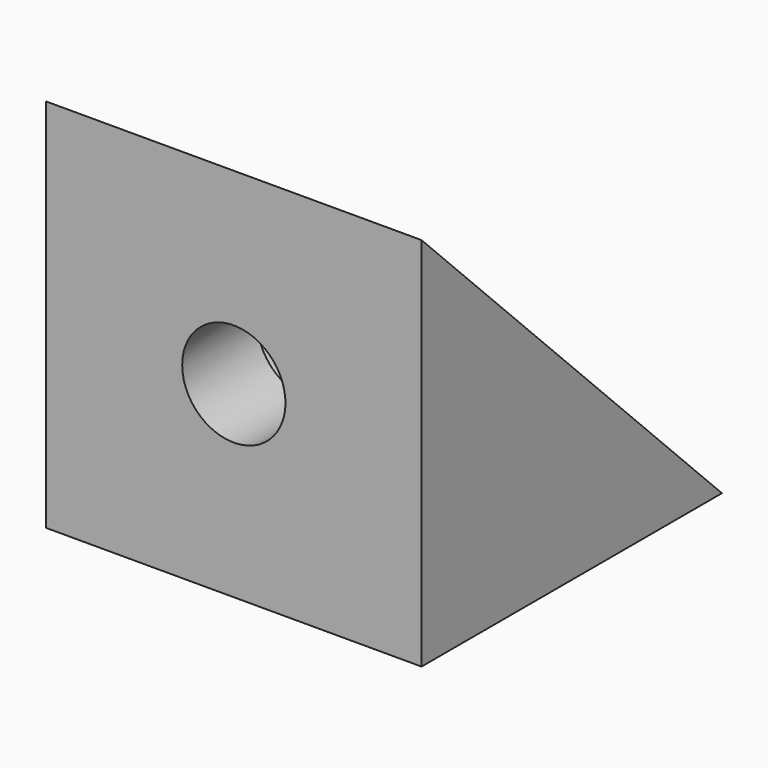
from build123d import *

# Parameters (mm, degrees)
F1_DEPTH = 20
F4_D     = 5.5
F3_R     = 5
F5_DEPTH = 15


with BuildPart() as f1:
    # F0 (on Right) → F1 (new body)
    with BuildSketch(Plane.YZ):
        Polygon((0, 20), (0, 0), (20, 0), align=None)
    extrude(amount=-F1_DEPTH)

    # F4 (through all)
    with Locations(Plane(origin=(0, 20, 0), x_dir=(1, 0, 0), z_dir=(0, 1, 0))):
        with Locations((-10, -10)):
            Hole(F4_D / 2)

    # F3 (on offset) → F5 (cut)
    with BuildSketch(Plane.XZ.offset(-20)):
        with Locations((-10, 10)):
            Circle(F3_R)
    extrude(amount=F5_DEPTH, mode=Mode.SUBTRACT)


solid = f1.part
